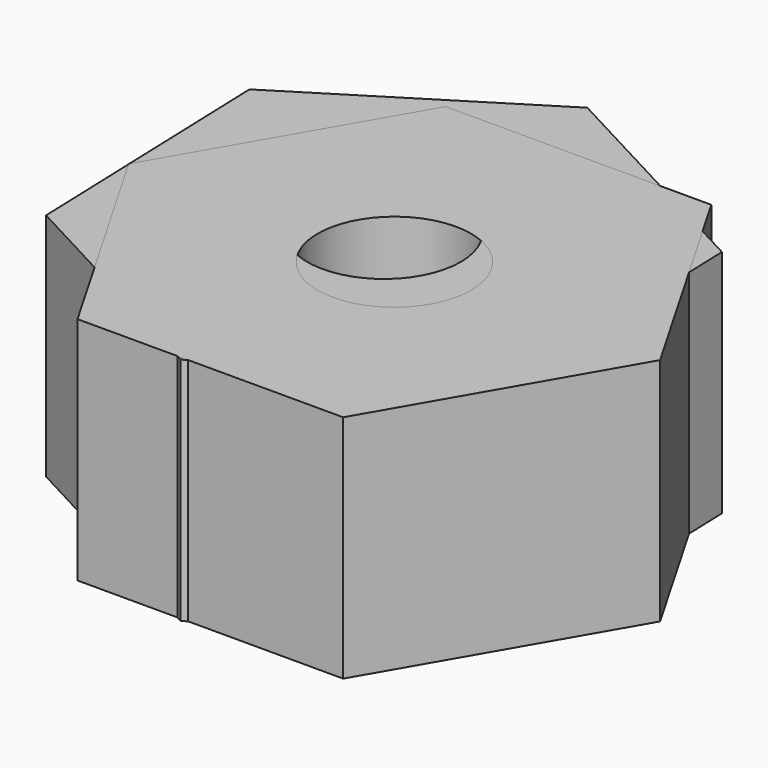
from build123d import *

# Parameters (mm, degrees)
F0_R     = 1.5875
F1_DEPTH = 4.7625
F2_R     = 1.5875
F3_DEPTH = 4.7625


with BuildPart() as f1:
    # F0 (on Top) → F1 (new body)
    with BuildSketch(Plane.XY):
        Polygon((-0.188116, 6.164661), (-4.853771, 3.253726), (-4.665655, -2.242316), (0.188116, -4.827425), (4.853771, -1.91649), (4.665655, 3.579553), align=None)
        with Locations((0, 0.668618)):
            Circle(F0_R, mode=Mode.SUBTRACT)
    extrude(amount=F1_DEPTH)


with BuildPart() as f3:
    # F2 (on Top) → F3 (new body)
    with BuildSketch(Plane.XY):
        Polygon((-1.999631, -4.7625), (3.499631, -4.7625), (6.249261, 0), (3.499631, 4.7625), (-1.999631, 4.7625), (-4.749261, 0), align=None)
        with Locations((0.75, 0)):
            Circle(F2_R, mode=Mode.SUBTRACT)
    extrude(amount=F3_DEPTH)


solid = Compound([f1.part, f3.part])
